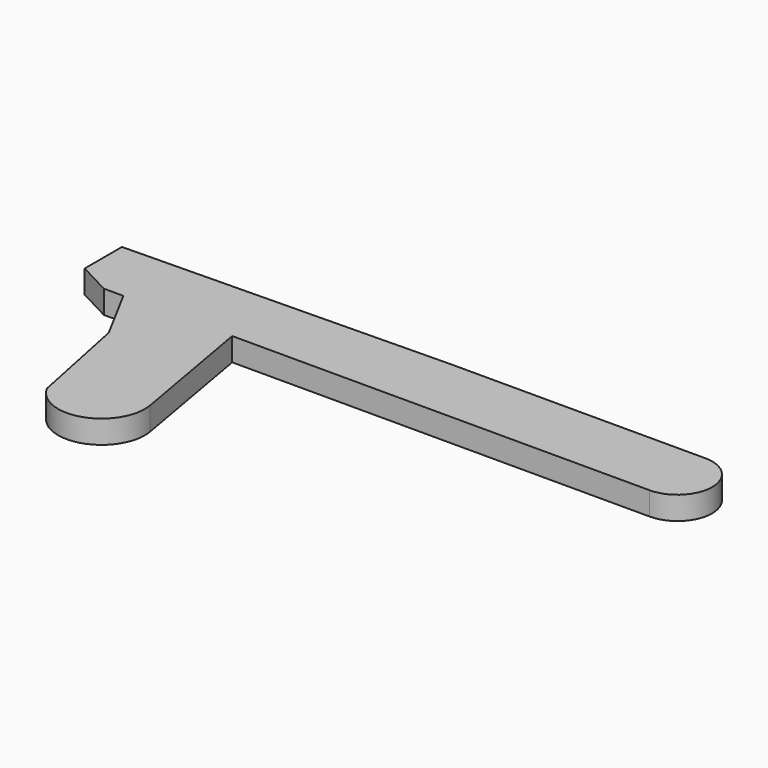
from build123d import *

# Parameters (mm, degrees)
F1_DEPTH = 2


with BuildPart() as f1:
    # F0 (on Top) → F1 (new body)
    with BuildSketch(Plane.XY):
        with BuildLine():
            ThreePointArc((41.035574, 8.848914), (44.035574, 11.848914), (41.035574, 14.848914))
            Line((41.035574, 14.848914), (19.065223, 14.848914))
            Line((19.065223, 14.848914), (-8.964426, 14.368003))
            Line((-8.964426, 14.368003), (-8.964426, 10.348275))
            Line((-8.964426, 10.348275), (-6.120325, 8.848914))
            Line((-6.120325, 8.848914), (-4.4251, 8.848914))
            Line((-4.4251, 8.848914), (-1.831835, 4.020077))
            Line((-1.831835, 4.020077), (0, -4.946886))
            ThreePointArc((0, -4.946886), (4.5255, -6.684783), (6.973939, -2.500816))
            Line((6.973939, -2.500816), (4.972675, 8.848914))
            Line((4.972675, 8.848914), (41.035574, 8.848914))
        make_face()
    extrude(amount=F1_DEPTH)


solid = f1.part
